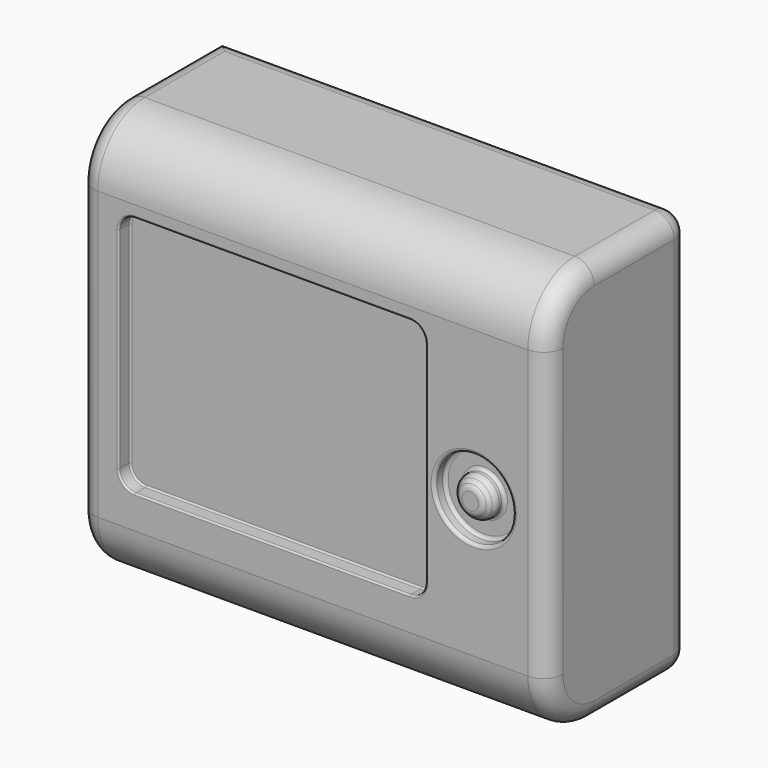
from build123d import *

# Parameters (mm, degrees)
F0_W      = 290
F0_H      = 250
F1_DEPTH  = 110
F2_R      = 36.2132034356
F3_R      = 12.0710678119
F4_R      = 24.3559076246
F5_DEPTH  = 8.2
F6_R      = 12.213051719
F7_DEPTH  = 10.9
F8_SIZE   = 5
F9_R      = 5
F10_R     = 2
F12_DEPTH = 9
F13_R     = 1


with BuildPart() as f1:
    # F0 (on Front) → F1 (new body)
    with BuildSketch(Plane.XZ):
        with Locations((6.1260089278, 54.1875623226)):
            Rectangle(F0_W, F0_H)
    extrude(amount=F1_DEPTH)

    # F2
    f2_edges = [f1.edges().sort_by_distance(p)[0] for p in [
        (6.126009, -110, 179.187562),
        (6.126009, -110, -70.812438),
    ]]
    fillet(f2_edges, radius=F2_R)

    # F3
    f3_edges = [f1.edges().sort_by_distance(p)[0] for p in [
        (151.126009, -36.893398, 179.187562),
        (-138.873991, -99.393398, 168.580961),
        (6.126009, 0, 179.187562),
        (151.126009, 0, 54.187562),
        (6.126009, 0, -70.812438),
    ]]
    fillet(f3_edges, radius=F3_R)

    # F4 (on face) → F5 (cut)
    with BuildSketch(Plane.XZ.offset(110)):
        with Locations((105.6296154857, 50.8707799017)):
            Circle(F4_R)
    extrude(amount=-F5_DEPTH, mode=Mode.SUBTRACT)

    # F6 (on face) → F7 (join)
    with BuildSketch(Plane.XZ.offset(101.8)):
        with Locations((105.6296154857, 50.8707799017)):
            Circle(F6_R)
    extrude(amount=F7_DEPTH)

    # F8
    f8_edges = [f1.edges().sort_by_distance(p)[0] for p in [
        (93.416564, -112.7, 50.87078),
    ]]
    chamfer(f8_edges, length=F8_SIZE)

    # F9
    f9_edges = [f1.edges().sort_by_distance(p)[0] for p in [
        (98.416564, -112.7, 50.87078),
        (93.416564, -107.7, 50.87078),
    ]]
    fillet(f9_edges, radius=F9_R)

    # F10
    f10_edges = [f1.edges().sort_by_distance(p)[0] for p in [
        (93.416564, -101.8, 50.87078),
        (81.273708, -101.8, 50.87078),
        (81.273708, -110, 50.87078),
    ]]
    fillet(f10_edges, radius=F10_R)

    # F11 (on face) → F12 (cut)
    with BuildSketch(Plane.XZ.offset(110)):
        with BuildLine():
            Line((66.0753774643, 135.7835853472), (-103.9246225357, 135.7835853472))
            ThreePointArc((-103.9246225357, 135.7835853472), (-110.9956903476, 132.8546531591), (-113.9246225357, 125.7835853472))
            Line((-113.9246225357, 125.7835853472), (-113.9246225357, -4.2164146528))
            ThreePointArc((-113.9246225357, -4.2164146528), (-110.9956903476, -11.2874824646), (-103.9246225357, -14.2164146528))
            Line((-103.9246225357, -14.2164146528), (66.0753774643, -14.2164146528))
            ThreePointArc((66.0753774643, -14.2164146528), (73.1464452762, -11.2874824646), (76.0753774643, -4.2164146528))
            Line((76.0753774643, -4.2164146528), (76.0753774643, 125.7835853472))
            ThreePointArc((76.0753774643, 125.7835853472), (73.1464452762, 132.8546531591), (66.0753774643, 135.7835853472))
        make_face()
    extrude(amount=-F12_DEPTH, mode=Mode.SUBTRACT)

    # F13
    f13_edges = [f1.edges().sort_by_distance(p)[0] for p in [
        (-110.99569, -110, -11.287482),
        (-18.924623, -101, 135.783585),
        (-110.99569, -101, 132.854653),
        (-113.924623, -101, 60.783585),
        (-110.99569, -101, -11.287482),
        (-18.924623, -101, -14.216415),
        (73.146445, -101, -11.287482),
        (76.075377, -101, 60.783585),
        (73.146445, -101, 132.854653),
    ]]
    fillet(f13_edges, radius=F13_R)


solid = f1.part
